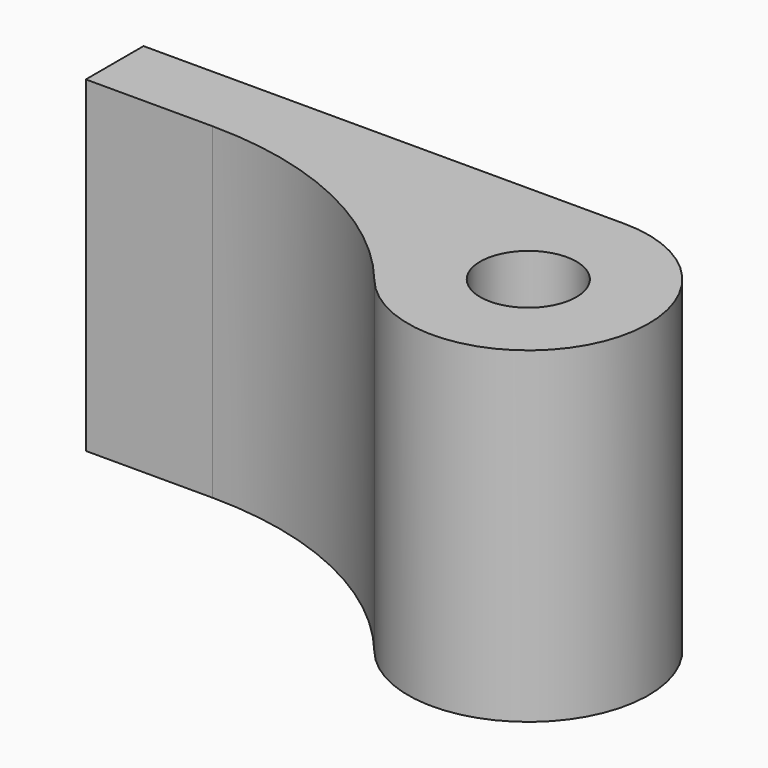
from build123d import *

# Parameters (mm, degrees)
SKETCH_R  = 1
PAD_DEPTH = 6.8


with BuildPart() as part:
    # Sketch → Pad (new body)
    with BuildSketch(Plane.XY):
        with BuildLine():
            Line((0, 2.5), (-10, 2.5))
            Line((-10, 2.5), (-10, 1))
            Line((-7.365431, 1), (-10, 1))
            ThreePointArc((-1.938281, -1.578944), (-4.361066, 0.322469), (-7.365431, 1))
            ThreePointArc((-1.938281, -1.578944), (2.258026, -1.072996), (0, 2.5))
        make_face()
        Circle(SKETCH_R, mode=Mode.SUBTRACT)
    extrude(amount=PAD_DEPTH)


solid = part.part
